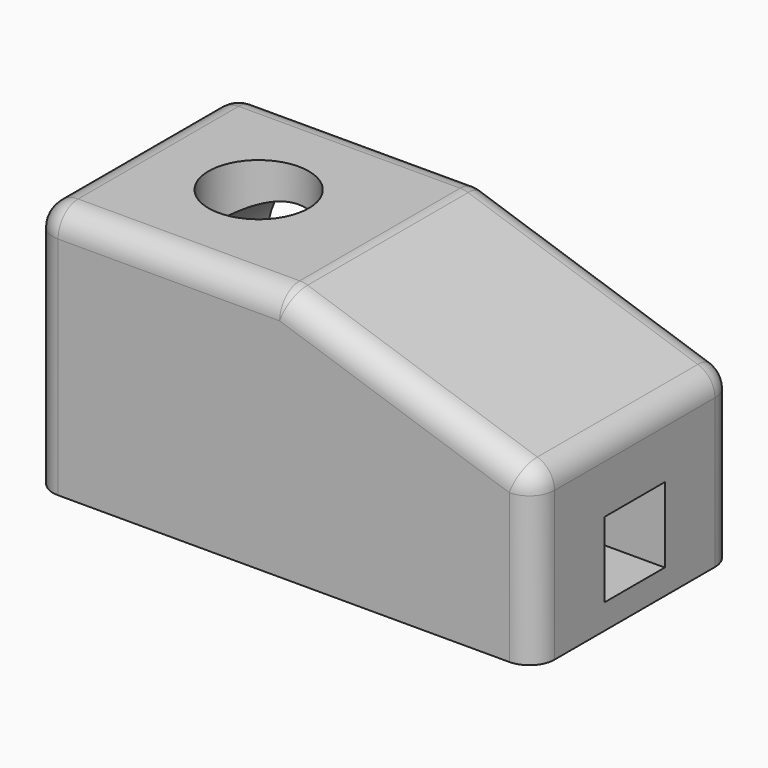
from build123d import *

# Parameters (mm, degrees)
F0_W     = 60
F0_H     = 30
F1_DEPTH = 30
F2_R     = 11
F3_DEPTH = 20
F4_W     = 9
F4_H     = 9
F5_DEPTH = 31
F6_R     = 6
F7_DEPTH = 26
F8_SIZE2 = 10
F8_SIZE  = 30
F9_R     = 3


with BuildPart() as f1:
    # F0 (on Front) → F1 (new body)
    with BuildSketch(Plane.XZ):
        Rectangle(F0_W, F0_H)
    extrude(amount=F1_DEPTH)

    # F2 (on face) → F3 (cut)
    with BuildSketch(Plane.XZ.offset(30)):
        with Locations((-15, 0)):
            Circle(F2_R)
    extrude(amount=-F3_DEPTH, mode=Mode.SUBTRACT)

    # F4 (on face) → F5 (cut)
    with BuildSketch(Plane.YZ.offset(30)):
        with Locations((-15, -7.5)):
            Rectangle(F4_W, F4_H)
    extrude(amount=-F5_DEPTH, mode=Mode.SUBTRACT)

    # F6 (on face) → F7 (cut)
    with BuildSketch(Plane.XY.offset(15)):
        with Locations((-15, -15)):
            Circle(F6_R)
    extrude(amount=-F7_DEPTH, mode=Mode.SUBTRACT)

    # F8
    f8_edges = [f1.edges().sort_by_distance(p)[0] for p in [
        (30, -15, 15),
    ]]
    f8_side = f1.faces().sort_by_distance((1.005666, -15, 15))[0]
    chamfer(f8_edges, length=F8_SIZE, length2=F8_SIZE2, reference=f8_side)

    # F9
    f9_edges = [f1.edges().sort_by_distance(p)[0] for p in [
        (-30, -15, 15),
        (-15, 0, 15),
        (0, -15, 15),
        (30, -15, 5),
        (-15, -30, 15),
        (15, -30, 10),
        (15, 0, 10),
        (30, -30, -5),
        (30, 0, -5),
        (-30, 0, 0),
        (-30, -30, 0),
    ]]
    fillet(f9_edges, radius=F9_R)


with BuildPart() as f10_1:
    # F10: instance of F1
    add(f1.part.mirror(Plane.XZ.offset(30)))


solid = f10_1.part
